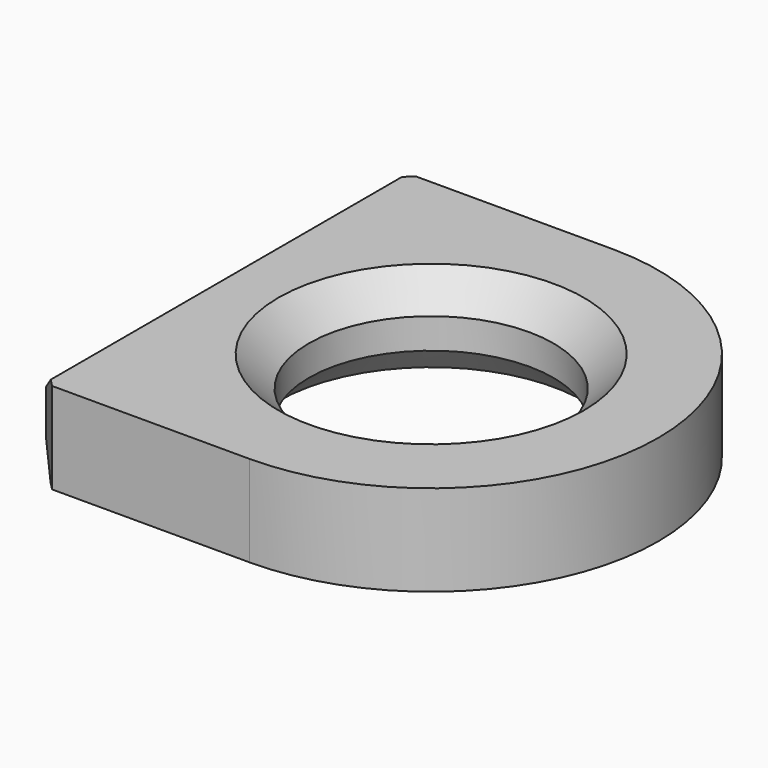
from build123d import *

# Parameters (mm, degrees)
F1_DEPTH = 19.05
F2_R     = 25.5905
F3_DEPTH = 19.051
F4_SIZE  = 6.35
F5_SIZE  = 4.7625


with BuildPart() as f1:
    # F0 (on Top) → F1 (new body)
    with BuildSketch(Plane.XY):
        with BuildLine():
            Line((47.625, 0), (0, 0))
            Line((0, 0), (0, -94.996))
            Line((0, -94.996), (47.625, -94.996))
            ThreePointArc((47.625, -94.996), (95.123, -47.498), (47.625, 0))
        make_face()
    extrude(amount=F1_DEPTH)

    # F2 (on face) → F3 (cut, through all)
    with BuildSketch(Plane.XY.offset(19.05)):
        with Locations((47.625, -47.498)):
            Circle(F2_R)
    extrude(amount=-F3_DEPTH, mode=Mode.SUBTRACT)

    # F4
    f4_edges = [f1.edges().sort_by_distance(p)[0] for p in [
        (0, 0, 9.525),
        (0, -94.996, 9.525),
        (22.0345, -47.498, 19.05),
        (22.0345, -47.498, 0),
    ]]
    chamfer(f4_edges, length=F4_SIZE)

    # F5
    f5_edges = [f1.edges().sort_by_distance(p)[0] for p in [
        (0, -47.498, 19.05),
        (0, -47.498, 0),
    ]]
    chamfer(f5_edges, length=F5_SIZE)


solid = f1.part
